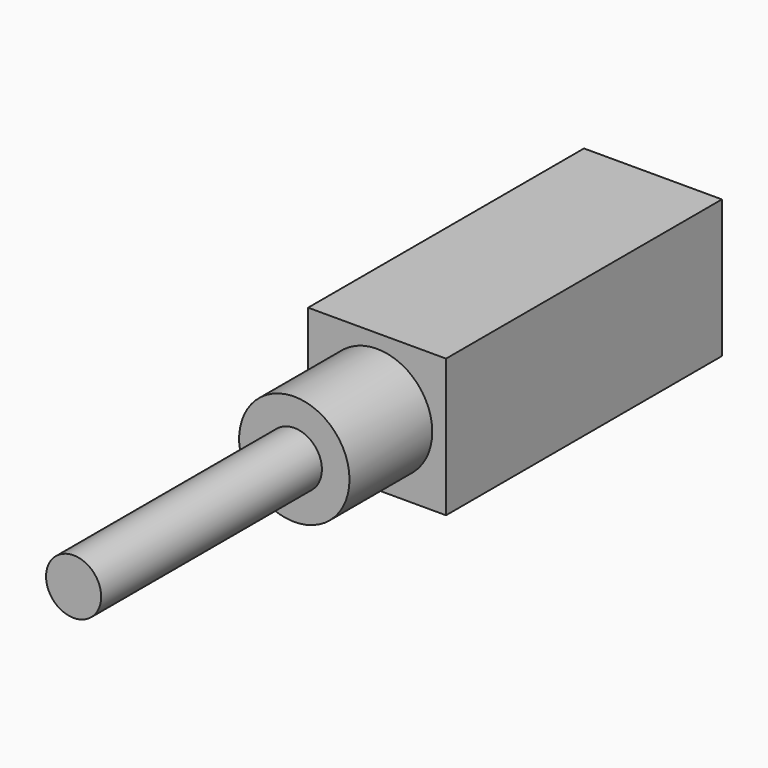
from build123d import *

# Parameters (mm, degrees)
F0_W     = 20
F0_H     = 20
F1_DEPTH = 50
F2_R     = 8
F3_DEPTH = 15
F4_R     = 4
F5_DEPTH = 40


with BuildPart() as f1:
    # F0 (on Front) → F1 (new body)
    with BuildSketch(Plane.XZ):
        with Locations((10, 10)):
            Rectangle(F0_W, F0_H)
        with Locations((10, 10)):
            Rectangle(F0_W, F0_H)
    extrude(amount=F1_DEPTH)

    # F2 (on face) → F3 (join)
    with BuildSketch(Plane.XZ.offset(50)):
        with Locations((10, 10)):
            Circle(F2_R)
    extrude(amount=F3_DEPTH)

    # F4 (on face) → F5 (join)
    with BuildSketch(Plane.XZ.offset(65)):
        with Locations((10, 10)):
            Circle(F4_R)
    extrude(amount=F5_DEPTH)


solid = f1.part
